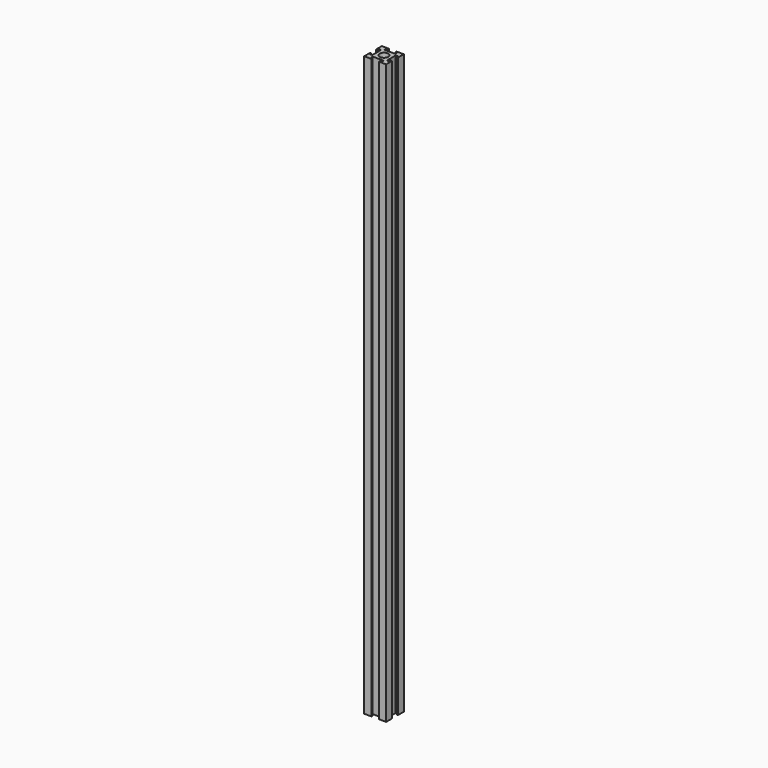
from build123d import *

# Parameters (mm, degrees)
F0_R     = 5.976003
F1_DEPTH = 790


with BuildPart() as f1:
    # F0 (on Top) → F1 (new body)
    with BuildSketch(Plane.XY):
        Polygon((15, 15), (5, 15), (5, 13), (7.5, 13), (7.5, 10), (0, 10), (-7.5, 10), (-7.5, 13), (-5, 13), (-5, 15), (-15, 15), (-15, 5), (-13, 5), (-13, 7.5), (-10, 7.5), (-10, 0), (-10, -7.5), (-13, -7.5), (-13, -5), (-15, -5), (-15, -15), (-5, -15), (-5, -13), (-7.5, -13), (-7.5, -10), (0, -10), (7.5, -10), (7.5, -13), (5, -13), (5, -15), (15, -15), (15, -5), (13, -5), (13, -7.5), (10, -7.5), (10, 0), (10, 7.5), (13, 7.5), (13, 5), (15, 5), align=None)
        Circle(F0_R, mode=Mode.SUBTRACT)
    extrude(amount=F1_DEPTH)


solid = f1.part
